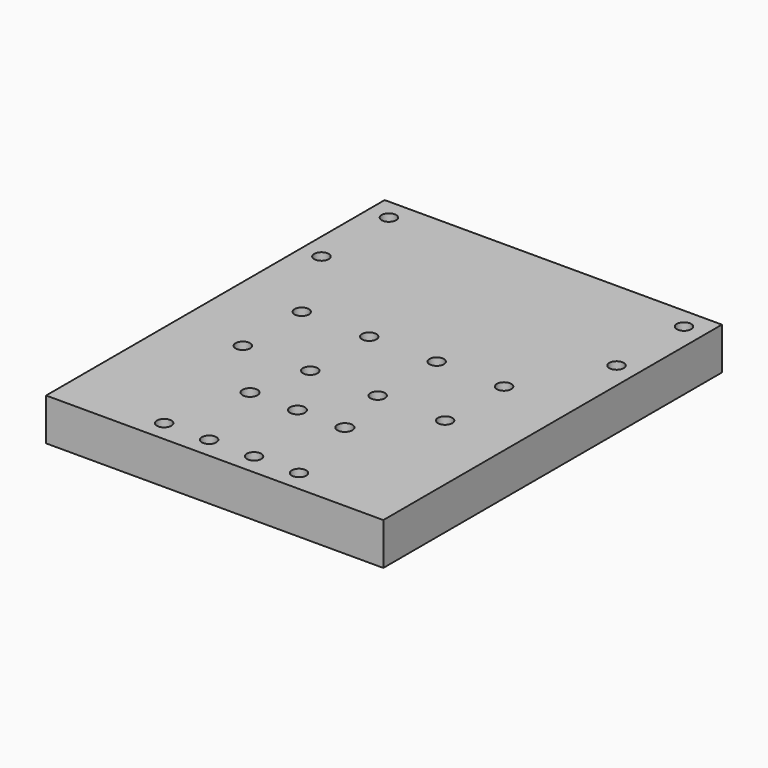
from build123d import *

# Parameters (mm, degrees)
F0_W     = 152.4
F0_H     = 191.2747
F1_DEPTH = 19.05
F3_D     = 6.5278
F6_D     = 6.7564


with BuildPart() as f1:
    # F0 (on Top) → F1 (new body)
    with BuildSketch(Plane.XY):
        Rectangle(F0_W, F0_H)
    extrude(amount=F1_DEPTH)

    # F3 (through all)
    with Locations(Plane.XY.offset(19.05)):
        with Locations((-30.48, -86.11235), (-10.16, -86.11235), (10.16, -86.11235), (30.48, -86.11235), (-66.675, 48.01235), (-66.675, 86.11235), (66.675, 86.11235), (66.675, 48.01235), (-45.72, 10.68705), (-45.72, -22.61235), (-15.24, -22.61235), (-15.24, 10.68705), (15.24, 10.68705), (15.24, -22.61235), (45.72, -22.61235), (45.72, 10.68705)):
            Hole(F3_D / 2)

    # F6 (through all)
    with Locations(Plane.XY.offset(19.05)):
        with Locations((0, -48.8890202521), (-21.43125, -48.8890202521), (21.43125, -48.8890202521)):
            Hole(F6_D / 2)


solid = f1.part
